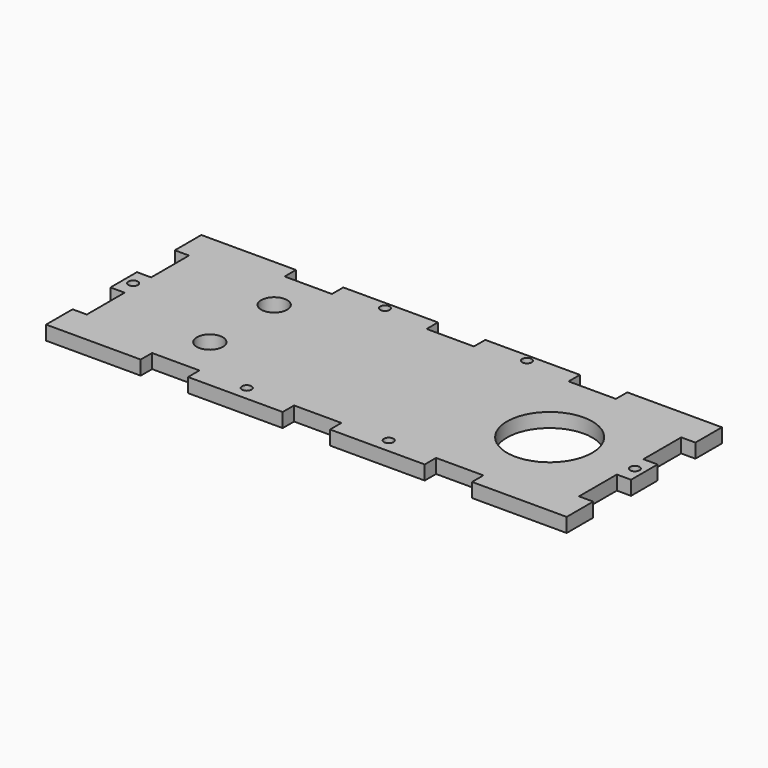
from build123d import *

# Parameters (mm, degrees)
F0_R     = 1
F0_R_2   = 2.75
F0_R_3   = 9
F1_DEPTH = 3


with BuildPart() as f1:
    # F0 (on Top) → F1 (new body)
    with BuildSketch(Plane.XY):
        Polygon((0, 7), (0, 0), (20, 0), (20, 3), (30, 3), (30, 0), (50, 0), (50, 3), (55, 3), (60, 3), (60, 0), (80, 0), (80, 3), (90, 3), (90, 0), (110, 0), (110, 7), (107, 7), (107, 17), (110, 17), (110, 24), (107, 24), (107, 34), (110, 34), (110, 41), (90, 41), (90, 38), (80, 38), (80, 41), (60, 41), (60, 38), (55, 38), (50, 38), (50, 41), (30, 41), (30, 38), (20, 38), (20, 41), (0, 41), (0, 34), (3, 34), (3, 24), (0, 24), (0, 17), (3, 17), (3, 7), align=None)
        with Locations((40, 3)):
            Circle(F0_R, mode=Mode.SUBTRACT)
        with Locations((25, 12)):
            Circle(F0_R_2, mode=Mode.SUBTRACT)
        with Locations((70, 3)):
            Circle(F0_R, mode=Mode.SUBTRACT)
        with Locations((2, 20.5)):
            Circle(F0_R, mode=Mode.SUBTRACT)
        with Locations((25, 29)):
            Circle(F0_R_2, mode=Mode.SUBTRACT)
        with Locations((40, 39.5)):
            Circle(F0_R, mode=Mode.SUBTRACT)
        with Locations((90, 20.5)):
            Circle(F0_R_3, mode=Mode.SUBTRACT)
        with Locations((108, 20.5)):
            Circle(F0_R, mode=Mode.SUBTRACT)
        with Locations((70, 39.5)):
            Circle(F0_R, mode=Mode.SUBTRACT)
    extrude(amount=F1_DEPTH)


solid = f1.part
